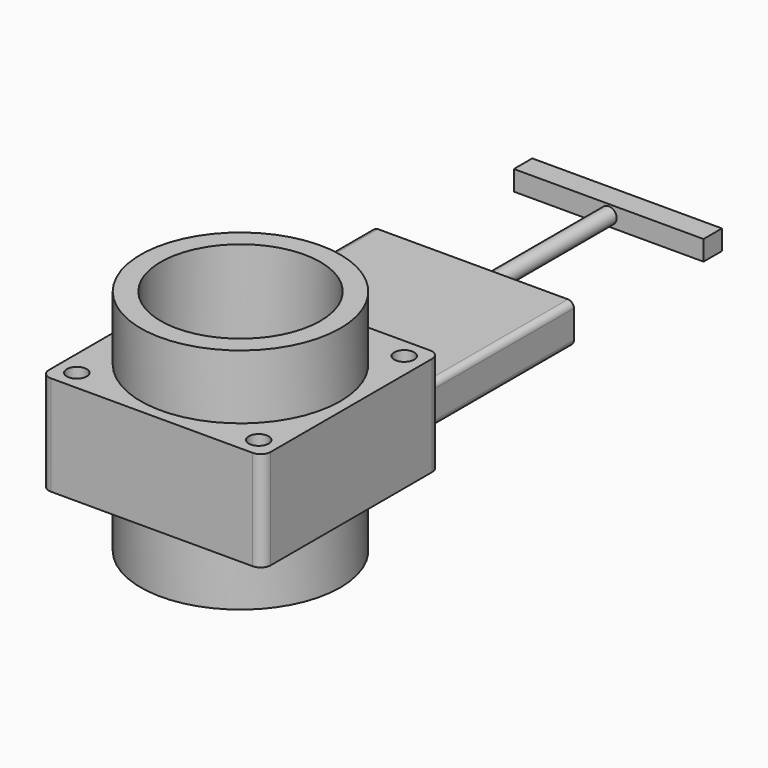
from build123d import *

# Parameters (mm, degrees)
F0_R           = 50.00625
F0_R_2         = 40
F1_DEPTH       = 114.3
F3_R           = 50.00625
F4_DEPTH       = 25
F4_DEPTH_BACK  = 25
F5_R           = 5
F6_DEPTH       = 82.151
F8_DEPTH       = 90
F9_R           = 4
F10_DEPTH      = 85
F11_W          = 95
F11_H          = 10
F11_R          = 4
F12_DEPTH      = 11.51
F13_R          = 40
F13_R_2        = 35
F14_DEPTH      = 10
F14_DEPTH_BACK = 25


with BuildPart() as f1:
    # F0 (on Top) → F1 (new body)
    with BuildSketch(Plane.XY):
        Circle(F0_R)
        Circle(F0_R_2, mode=Mode.SUBTRACT)
    extrude(amount=F1_DEPTH)

    # F3 (on offset) → F4 (join, two sides)
    with BuildSketch(Plane.XY.offset(57.15)) as f4_sk:
        with BuildLine():
            ThreePointArc((55.5625, 50.5625), (54.0980339059, 54.0980339059), (50.5625, 55.5625))
            Line((50.5625, 55.5625), (-50.5625, 55.5625))
            ThreePointArc((-50.5625, 55.5625), (-54.0980339059, 54.0980339059), (-55.5625, 50.5625))
            Line((-55.5625, 50.5625), (-55.5625, -50.5625))
            ThreePointArc((-55.5625, -50.5625), (-54.0980339059, -54.0980339059), (-50.5625, -55.5625))
            Line((-50.5625, -55.5625), (50.5625, -55.5625))
            ThreePointArc((50.5625, -55.5625), (54.0980339059, -54.0980339059), (55.5625, -50.5625))
            Line((55.5625, -50.5625), (55.5625, 50.5625))
        make_face()
        Circle(F3_R, mode=Mode.SUBTRACT)
    extrude(amount=F4_DEPTH)
    extrude(f4_sk.sketch, amount=-F4_DEPTH_BACK)

    # F5 (on face) → F6 (cut, through all)
    with BuildSketch(Plane.XY.offset(82.15)):
        with Locations((-45.5625, 45.5625)):
            Circle(F5_R)
        with Locations((-45.5625, -45.5625)):
            Circle(F5_R)
        with Locations((45.5625, -45.5625)):
            Circle(F5_R)
        with Locations((45.5625, 45.5625)):
            Circle(F5_R)
    extrude(amount=-F6_DEPTH, mode=Mode.SUBTRACT)

    # F7 (on face) → F8 (join)
    with BuildSketch(Plane(origin=(0, 55.5625, 0), x_dir=(-1, 0, 0), z_dir=(0, 1, 0))):
        with BuildLine():
            Line((-47.5625, 47.15), (47.5625, 47.15))
            ThreePointArc((47.5625, 47.15), (49.6838203436, 48.0286796564), (50.5625, 50.15))
            Line((50.5625, 50.15), (50.5625, 64.15))
            ThreePointArc((50.5625, 64.15), (49.6838203436, 66.2713203436), (47.5625, 67.15))
            Line((47.5625, 67.15), (-47.5625, 67.15))
            ThreePointArc((-47.5625, 67.15), (-49.6838203436, 66.2713203436), (-50.5625, 64.15))
            Line((-50.5625, 64.15), (-50.5625, 50.15))
            ThreePointArc((-50.5625, 50.15), (-49.6838203436, 48.0286796564), (-47.5625, 47.15))
        make_face()
        with BuildLine():
            Line((-47.5625, 47.15), (47.5625, 47.15))
            ThreePointArc((47.5625, 47.15), (49.6838203436, 48.0286796564), (50.5625, 50.15))
            Line((50.5625, 50.15), (50.5625, 64.15))
            ThreePointArc((50.5625, 64.15), (49.6838203436, 66.2713203436), (47.5625, 67.15))
            Line((47.5625, 67.15), (-47.5625, 67.15))
            ThreePointArc((-47.5625, 67.15), (-49.6838203436, 66.2713203436), (-50.5625, 64.15))
            Line((-50.5625, 64.15), (-50.5625, 50.15))
            ThreePointArc((-50.5625, 50.15), (-49.6838203436, 48.0286796564), (-47.5625, 47.15))
        make_face()
    extrude(amount=F8_DEPTH)

    # F9 (on face) → F10 (join)
    with BuildSketch(Plane(origin=(0, 145.5625, 0), x_dir=(-1, 0, 0), z_dir=(0, 1, 0))):
        with Locations((0, 54.15)):
            Circle(F9_R)
    extrude(amount=F10_DEPTH)

    # F11 (on face) → F12 (join)
    with BuildSketch(Plane(origin=(0, 230.5625, 0), x_dir=(-1, 0, 0), z_dir=(0, 1, 0))):
        with Locations((0, 54.15)):
            Rectangle(F11_W, F11_H)
        with Locations((0, 54.15)):
            Circle(F11_R, mode=Mode.SUBTRACT)
        with Locations((0, 54.15)):
            Circle(F11_R)
    extrude(amount=F12_DEPTH)

    # F13 (on offset) → F14 (join, two sides)
    with BuildSketch(Plane.XY.offset(57.15)) as f14_sk:
        Circle(F13_R)
        Circle(F13_R_2, mode=Mode.SUBTRACT)
    extrude(amount=F14_DEPTH)
    extrude(f14_sk.sketch, amount=-F14_DEPTH_BACK)


solid = f1.part
